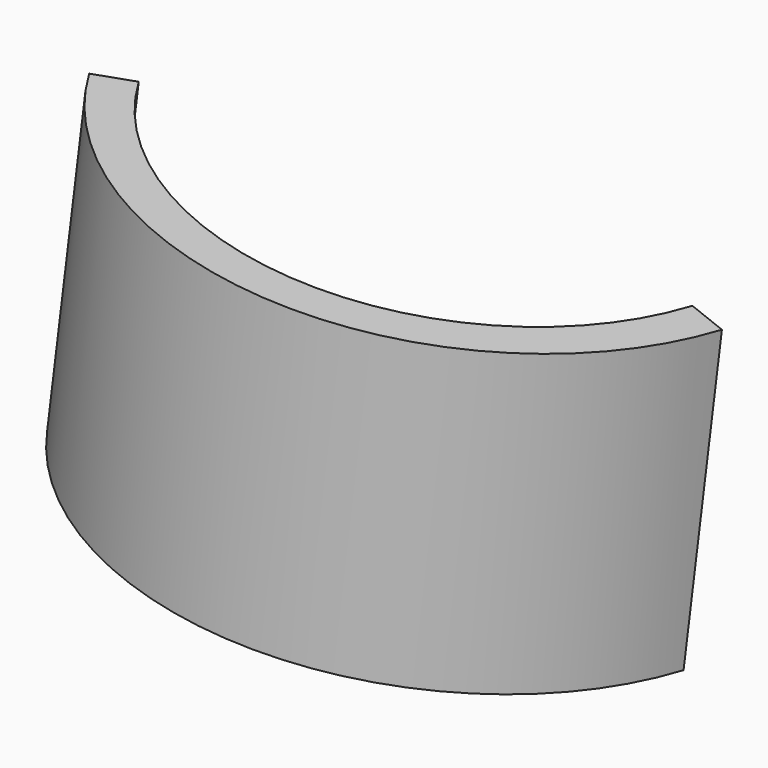
from build123d import *

# Parameters (mm, degrees)
F1_ANGLE_START = 30
F1_ANGLE       = 135


with BuildPart() as f1:
    # F0 (on Front) → F1 (revolve)
    with BuildSketch(Plane.XZ, mode=Mode.PRIVATE) as f1_sk:
        Polygon((-11.2952012285, -65.8752868371), (-8.1438671971, -66.2622220024), (-5.0483858746, -41.0515497508), (-8.1997199061, -40.6646145854), align=None)
    revolve(f1_sk.sketch.rotate(Axis((15.4632116844, 0, -56.3654320338), (0.1218693434, 0, 0.9925461516)), F1_ANGLE_START), axis=Axis((15.4632116844, 0, -56.3654320338), (0.1218693434, 0, 0.9925461516)), revolution_arc=F1_ANGLE)


solid = f1.part
